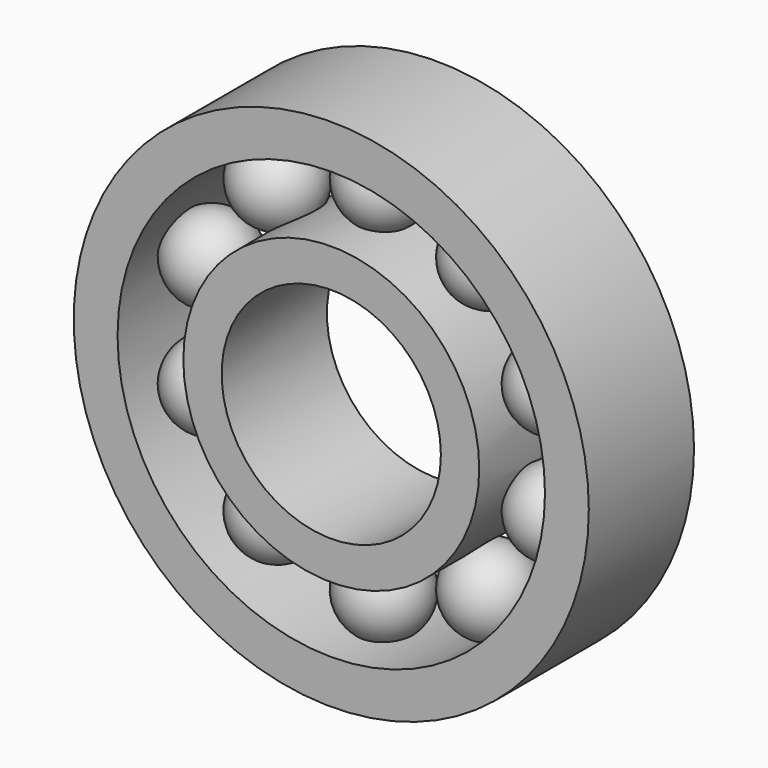
from build123d import *

# Parameters (mm, degrees)
F0_R     = 23.5
F0_R_2   = 19.5
F1_DEPTH = 6
F0_R_3   = 13.5
F0_R_4   = 10
F4_COUNT = 10


with BuildPart() as f1:
    # F0 (on Front) → F1 (new body, symmetric)
    with BuildSketch(Plane.XZ):
        Circle(F0_R)
        Circle(F0_R_2, mode=Mode.SUBTRACT)
    extrude(amount=F1_DEPTH, both=True)



with BuildPart() as f1b:
    # F0 (on Front) → F1, piece 2 (new body, symmetric)
    with BuildSketch(Plane.XZ):
        Circle(F0_R_3)
        Circle(F0_R_4, mode=Mode.SUBTRACT)
    extrude(amount=F1_DEPTH, both=True)


with BuildPart() as f1_1:
    add(f1.part)

    add(f1b.part)  # F3 merges F1b
    # F2 (on Front) → F3 (revolve)
    with BuildSketch(Plane.XZ):
        with BuildLine():
            Line((0, 20.3638391832), (0, 12.6361608168))
            ThreePointArc((0, 12.6361608168), (3.8638391832, 16.5), (0, 20.3638391832))
        make_face()
    revolve(axis=Axis((0, 0, 16.5), (0, 0, -1)))

    # F4: F1 ×10 about axis
    f4_axis = Axis((0, -6, 0), (0, -1, 0))


with BuildPart() as f1_2:
    add(f1_1.part)
    for i in range(1, F4_COUNT):
        add(f1_1.part.rotate(f4_axis, i * 360 / F4_COUNT))


solid = f1_2.part
